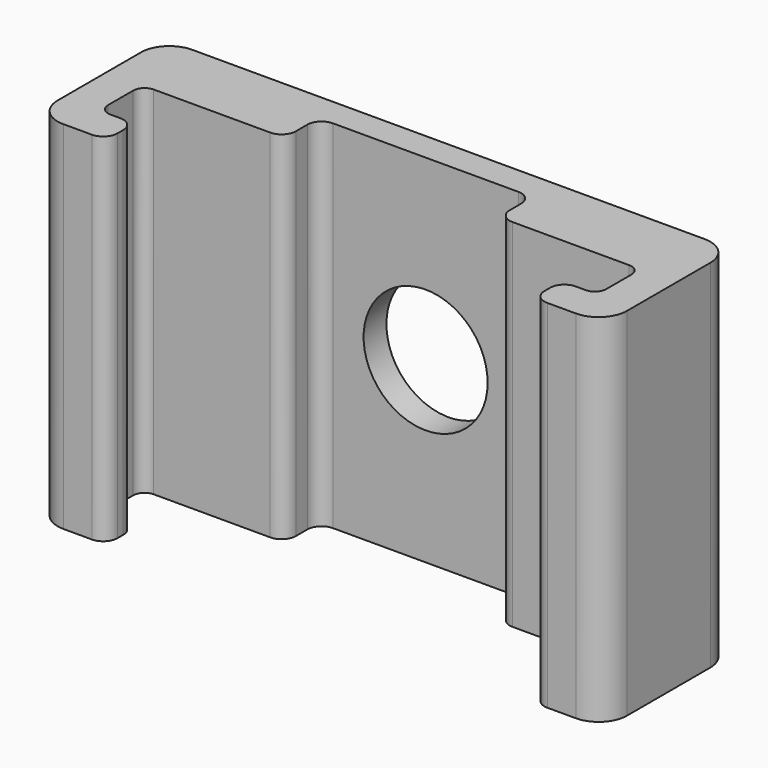
from build123d import *

# Parameters (mm, degrees)
F1_DEPTH = 25
F2_R     = 2
F3_R     = 1
F4_R     = 0.8
F5_R     = 4.35
F6_DEPTH = 25


with BuildPart() as f1:
    # F0 (on Top) → F1 (new body)
    with BuildSketch(Plane.XY):
        Polygon((-14.975, -11.3), (-14.975, -8.8), (-17.475, -8.8), (-17.475, -5), (-7.5, -5), (-7.5, -2), (0, -2), (7.5, -2), (7.5, -5), (17.475, -5), (17.475, -8.8), (14.975, -8.8), (14.975, -11.3), (19.975, -11.3), (19.975, 0), (0, 0), (-19.975, 0), (-19.975, -11.3), align=None)
    extrude(amount=F1_DEPTH)

    # F2
    f2_edges = [f1.edges().sort_by_distance(p)[0] for p in [
        (-19.975, 0, 12.5),
        (19.975, 0, 12.5),
        (-19.975, -11.3, 12.5),
        (19.975, -11.3, 12.5),
    ]]
    fillet(f2_edges, radius=F2_R)

    # F3
    f3_edges = [f1.edges().sort_by_distance(p)[0] for p in [
        (7.5, -2, 12.5),
        (-7.5, -2, 12.5),
        (7.5, -5, 12.5),
        (-7.5, -5, 12.5),
        (-14.975, -11.3, 12.5),
        (-14.975, -8.8, 12.5),
        (14.975, -8.8, 12.5),
        (14.975, -11.3, 12.5),
    ]]
    fillet(f3_edges, radius=F3_R)

    # F4
    f4_edges = [f1.edges().sort_by_distance(p)[0] for p in [
        (17.475, -5, 12.5),
        (-17.475, -5, 12.5),
        (-17.475, -8.8, 12.5),
        (17.475, -8.8, 12.5),
    ]]
    fillet(f4_edges, radius=F4_R)

    # F5 (on face) → F6 (cut)
    with BuildSketch(Plane.XZ.offset(2)):
        with Locations((0, 12.5)):
            Circle(F5_R)
    extrude(amount=-F6_DEPTH, mode=Mode.SUBTRACT)


solid = f1.part
